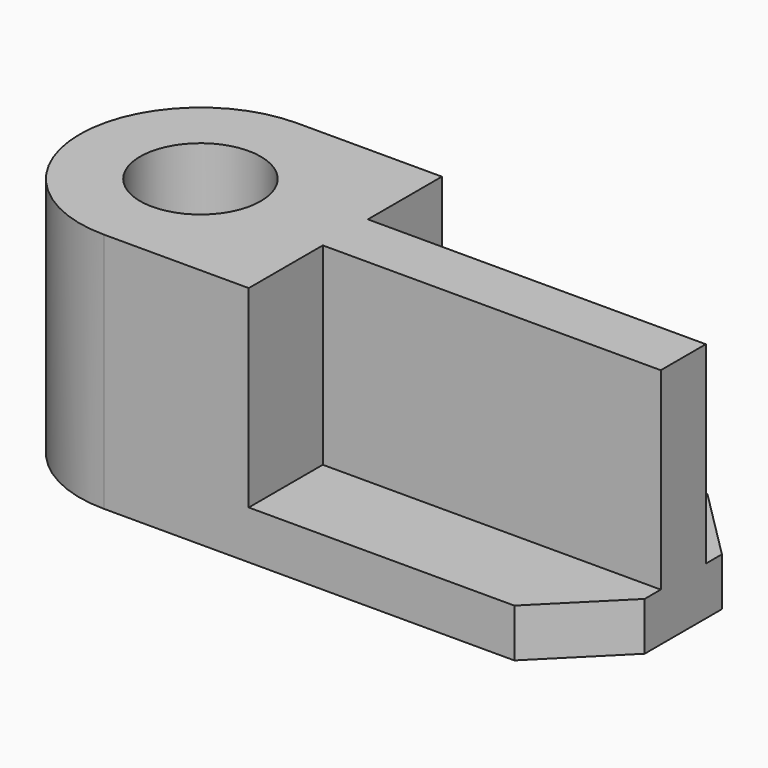
from build123d import *

# Parameters (mm, degrees)
F0_R     = 7.5
F1_DEPTH = 6
F2_DEPTH = 30


with BuildPart() as f1:
    # F0 (on Top) → F1 (new body)
    with BuildSketch(Plane.XY):
        with BuildLine():
            Line((18, 15), (0, 15))
            ThreePointArc((0, 15), (-15, 0), (0, -15))
            Line((0, -15), (18, -15))
            Line((18, -15), (18, -3.5))
            Line((18, -3.5), (60, -3.5))
            Line((60, -3.5), (60, 0))
            Line((60, 0), (60, 3.5))
            Line((60, 3.5), (18, 3.5))
            Line((18, 3.5), (18, 15))
        make_face()
        Circle(F0_R, mode=Mode.SUBTRACT)
        Polygon((51, 15), (18, 15), (18, 3.5), (60, 3.5), (60, 6), align=None)
        Polygon((18, -3.5), (18, -15), (51, -15), (60, -6), (60, -3.5), align=None)
    extrude(amount=F1_DEPTH)

    # F0 (on Top) → F2 (join)
    with BuildSketch(Plane.XY):
        with BuildLine():
            Line((18, 15), (0, 15))
            ThreePointArc((0, 15), (-15, 0), (0, -15))
            Line((0, -15), (18, -15))
            Line((18, -15), (18, -3.5))
            Line((18, -3.5), (60, -3.5))
            Line((60, -3.5), (60, 0))
            Line((60, 0), (60, 3.5))
            Line((60, 3.5), (18, 3.5))
            Line((18, 3.5), (18, 15))
        make_face()
        Circle(F0_R, mode=Mode.SUBTRACT)
    extrude(amount=F2_DEPTH)


solid = f1.part
